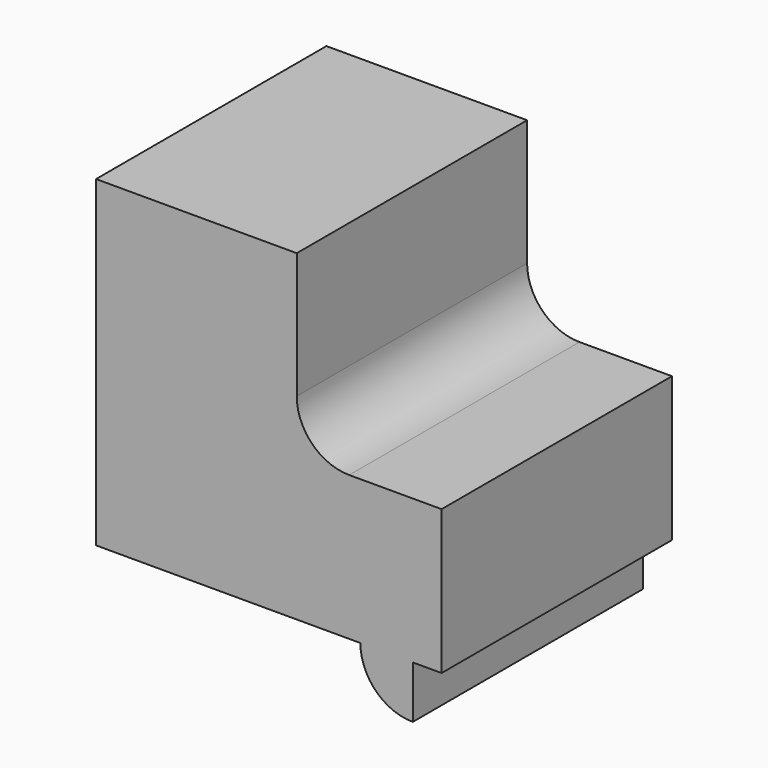
from build123d import *

# Parameters (mm, degrees)
F1_DEPTH = 5000


with BuildPart() as f1:
    # F0 (on Front) → F1 (new body)
    with BuildSketch(Plane.XZ):
        with BuildLine():
            Line((3485, 5600), (0, 5600))
            Line((0, 5600), (0, 0))
            Line((0, 0), (4590, 0))
            ThreePointArc((4590, 0), (4856.532829, -643.467171), (5500, -910))
            Line((5500, -910), (5500, 0))
            Line((5500, 0), (6000, 0))
            Line((6000, 0), (6000, 2505))
            Line((6000, 2505), (5710, 2505))
            Line((5710, 2505), (5420, 2505))
            Line((5420, 2505), (5130, 2505))
            Line((5130, 2505), (4840, 2505))
            Line((4840, 2505), (4395, 2505))
            ThreePointArc((4395, 2505), (3751.532829, 2771.532829), (3485, 3415))
            Line((3485, 3415), (3485, 3860))
            Line((3485, 3860), (3485, 4150))
            Line((3485, 4150), (3485, 4440))
            Line((3485, 4440), (3485, 4730))
            Line((3485, 4730), (3485, 5020))
            Line((3485, 5020), (3485, 5310))
            Line((3485, 5310), (3485, 5600))
        make_face()
    extrude(amount=F1_DEPTH)


solid = f1.part
